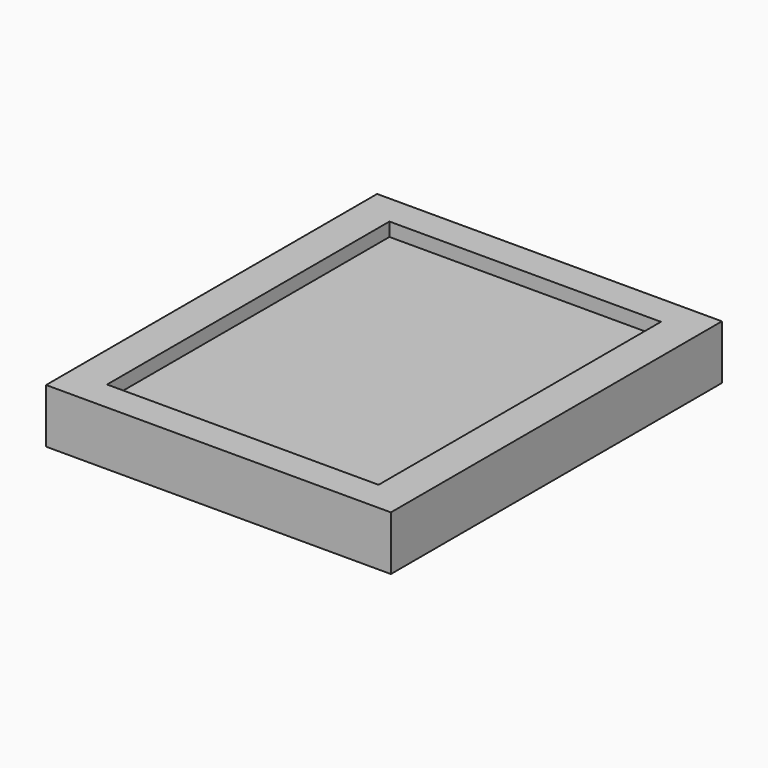
from build123d import *

# Parameters (mm, degrees)
F0_W     = 50
F0_H     = 65
F1_DEPTH = 7.5
F0_W_2   = 63.5
F0_H_2   = 76.2
F2_DEPTH = 10
F3_T     = -2.5


with BuildPart() as f1:
    # F0 (on Top) → F1 (new body)
    with BuildSketch(Plane.XY):
        Rectangle(F0_W, F0_H)
    extrude(amount=F1_DEPTH)

    # F0 (on Top) → F2 (join)
    with BuildSketch(Plane.XY):
        Rectangle(F0_W_2, F0_H_2)
        Rectangle(F0_W, F0_H, mode=Mode.SUBTRACT)
    extrude(amount=F2_DEPTH)

    # F3
    f3_openings = [f1.faces().sort_by_distance(p)[0] for p in [
        (0, 0, 0),
    ]]
    offset(amount=F3_T, openings=f3_openings, kind=Kind.INTERSECTION)


solid = f1.part
